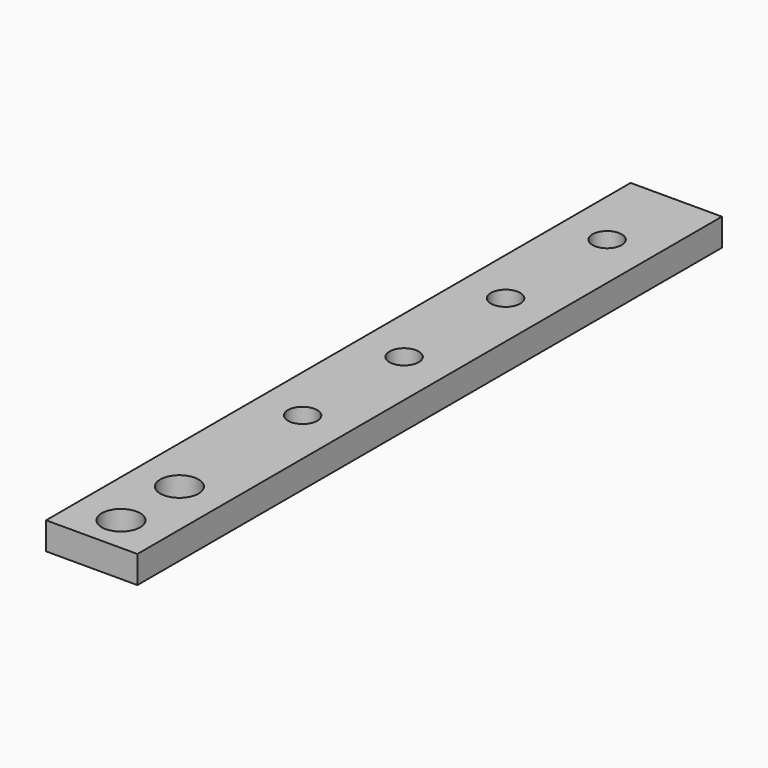
from build123d import *

# Parameters (mm, degrees)
CYLINDER017_R     = 2.1
CYLINDER017_DEPTH = 5
CYLINDER016_R     = 2.1
CYLINDER016_DEPTH = 5
CUBE004_W         = 10
CUBE004_H         = 20
CUBE004_DEPTH     = 3
CYLINDER013_R     = 1.6
CYLINDER013_DEPTH = 5
CYLINDER014_R     = 1.6
CYLINDER014_DEPTH = 5
CYLINDER015_R     = 1.6
CYLINDER015_DEPTH = 5
CYLINDER012_R     = 1.6
CYLINDER012_DEPTH = 5
CUBE003_W         = 10
CUBE003_H         = 60
CUBE003_DEPTH     = 3


with BuildPart() as cylinder017:
    # cylinder017 → cylinder017 (new body)
    with BuildSketch(Plane(origin=(5, -8, -1), x_dir=(1, 0, 0), z_dir=(0, 0, 1))):
        Circle(CYLINDER017_R)
    extrude(amount=CYLINDER017_DEPTH)


with BuildPart() as union004:
    # cylinder016 → cylinder016 (new body)
    with BuildSketch(Plane(origin=(5, -16, -1), x_dir=(1, 0, 0), z_dir=(0, 0, 1))):
        Circle(CYLINDER016_R)
    extrude(amount=CYLINDER016_DEPTH)

    # union004: union cylinder017
    add(cylinder017.part)


with BuildPart() as difference004:
    # cube004 → cube004 (new body)
    with BuildSketch(Plane(origin=(0, -20, 0), x_dir=(1, 0, 0), z_dir=(0, 0, 1))):
        with Locations((5, 10)):
            Rectangle(CUBE004_W, CUBE004_H)
    extrude(amount=CUBE004_DEPTH)

    # difference004: cut union004
    add(union004.part, mode=Mode.SUBTRACT)


with BuildPart() as cylinder013:
    # cylinder013 → cylinder013 (new body)
    with BuildSketch(Plane(origin=(5, 22.7525, -1), x_dir=(1, 0, 0), z_dir=(0, 0, 1))):
        Circle(CYLINDER013_R)
    extrude(amount=CYLINDER013_DEPTH)


with BuildPart() as cylinder014:
    # cylinder014 → cylinder014 (new body)
    with BuildSketch(Plane(origin=(5, 36.645, -1), x_dir=(1, 0, 0), z_dir=(0, 0, 1))):
        Circle(CYLINDER014_R)
    extrude(amount=CYLINDER014_DEPTH)


with BuildPart() as cylinder015:
    # cylinder015 → cylinder015 (new body)
    with BuildSketch(Plane(origin=(5, 50.5375, -1), x_dir=(1, 0, 0), z_dir=(0, 0, 1))):
        Circle(CYLINDER015_R)
    extrude(amount=CYLINDER015_DEPTH)


with BuildPart() as group003:
    # cylinder012 → cylinder012 (new body)
    with BuildSketch(Plane(origin=(5, 8.86, -1), x_dir=(1, 0, 0), z_dir=(0, 0, 1))):
        Circle(CYLINDER012_R)
    extrude(amount=CYLINDER012_DEPTH)

    # Group003: union cylinder013, cylinder014, cylinder015
    add(cylinder013.part)
    add(cylinder014.part)
    add(cylinder015.part)


with BuildPart() as obj1:
    # cube003 → cube003 (new body)
    with BuildSketch(Plane.XY):
        with Locations((5, 30)):
            Rectangle(CUBE003_W, CUBE003_H)
    extrude(amount=CUBE003_DEPTH)

    # difference003: cut Group003
    add(group003.part, mode=Mode.SUBTRACT)

    # union005: union difference004
    add(difference004.part)


with BuildPart() as obj1_1:
    # union005 placement: moved
    add(obj1.part.moved(Location((25, 0, 0))))


solid = obj1_1.part
